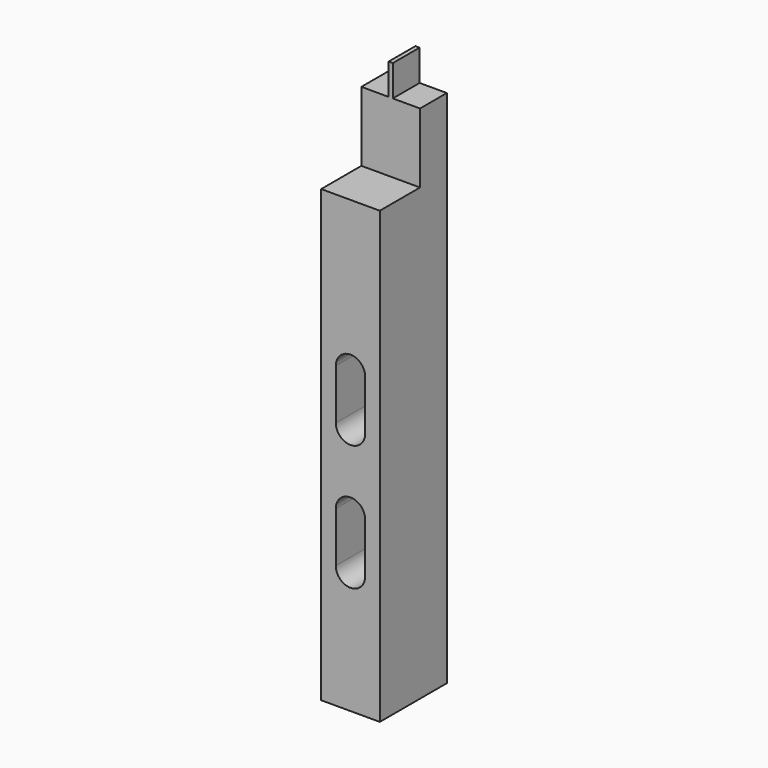
from build123d import *

# Parameters (mm, degrees)
F0_W     = 7
F0_H     = 65.71
F1_DEPTH = 10
F2_W     = 3.25
F2_H     = 3.71
F3_DEPTH = 10
F5_DEPTH = 10
F6_W     = 6
F6_H     = 12.01
F7_DEPTH = 7
F9_DEPTH = 10


with BuildPart() as f1:
    # F0 (on Front) → F1 (new body)
    with BuildSketch(Plane.XZ):
        Rectangle(F0_W, F0_H)
    extrude(amount=-F1_DEPTH)

    # F2 (on face) → F3 (cut, through all)
    with BuildSketch(Plane.XZ):
        with Locations((-1.875, 31)):
            Rectangle(F2_W, F2_H)
        with Locations((1.875, 31)):
            Rectangle(F2_W, F2_H)
    extrude(amount=-F3_DEPTH, mode=Mode.SUBTRACT)

    # F4 (on face) → F5 (cut, through all)
    with BuildSketch(Plane.XZ):
        with BuildLine():
            Line((-1.75, -12.155), (-1.75, -18.155))
            ThreePointArc((-1.75, -18.155), (0, -19.905), (1.75, -18.155))
            Line((1.75, -18.155), (1.75, -12.155))
            ThreePointArc((1.75, -12.155), (0, -10.405), (-1.75, -12.155))
        make_face()
        with BuildLine():
            Line((-1.75, 2.845), (-1.75, -3.155))
            ThreePointArc((-1.75, -3.155), (0, -4.905), (1.75, -3.155))
            Line((1.75, -3.155), (1.75, 2.845))
            ThreePointArc((1.75, 2.845), (0, 4.595), (-1.75, 2.845))
        make_face()
    extrude(amount=-F5_DEPTH, mode=Mode.SUBTRACT)

    # F6 (on face) → F7 (cut, through all)
    with BuildSketch(Plane.YZ.offset(3.5)):
        with Locations((3, 26.85)):
            Rectangle(F6_W, F6_H)
    extrude(amount=-F7_DEPTH, mode=Mode.SUBTRACT)

    # F8 (on face) → F9 (cut)
    with BuildSketch(Plane(origin=(0, 0, -32.855), x_dir=(1, 0, 0), z_dir=(0, 0, -1))):
        with BuildLine():
            ThreePointArc((0, -3.5), (-1.06066, -6.06066), (1.5, -5))
            ThreePointArc((1.5, -5), (1.06066, -3.93934), (0, -3.5))
        make_face()
    extrude(amount=-F9_DEPTH, mode=Mode.SUBTRACT)


solid = f1.part
